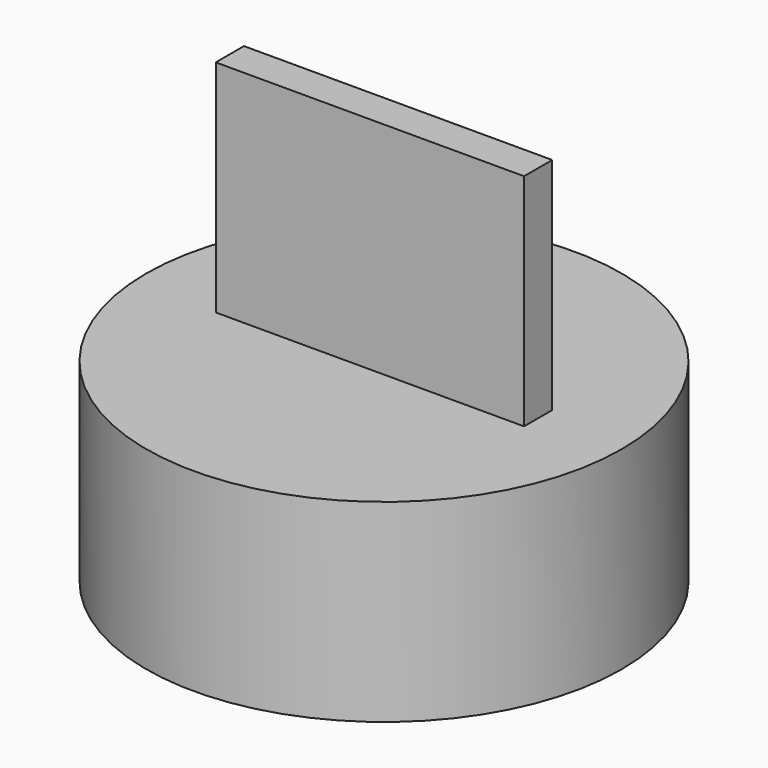
from build123d import *

# Parameters (mm, degrees)
F0_R     = 27
F0_R_2   = 25
F1_DEPTH = 20
F2_R     = 27
F3_DEPTH = 2
F4_W     = 35
F4_H     = 4
F5_DEPTH = 25


with BuildPart() as f1:
    # F0 (on Top) → F1 (new body)
    with BuildSketch(Plane.XY):
        Circle(F0_R)
        Circle(F0_R_2, mode=Mode.SUBTRACT)
    extrude(amount=F1_DEPTH)

    # F2 (on face) → F3 (join)
    with BuildSketch(Plane.XY.offset(20)):
        Circle(F2_R)
    extrude(amount=F3_DEPTH)

    # F4 (on face) → F5 (join)
    with BuildSketch(Plane.XY.offset(22)):
        Rectangle(F4_W, F4_H)
    extrude(amount=F5_DEPTH)


solid = f1.part
